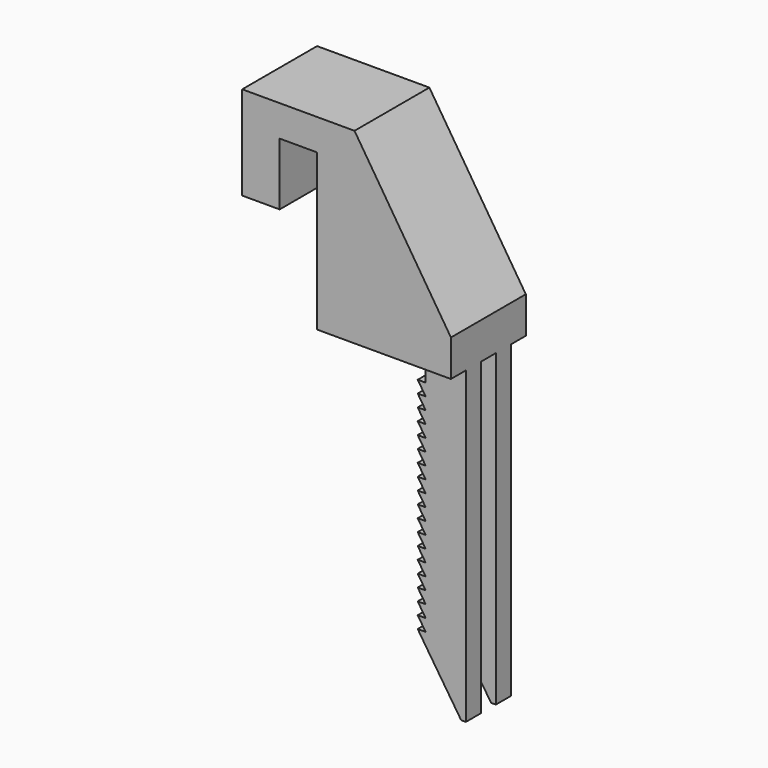
from build123d import *

# Parameters (mm, degrees)
F0_W     = 6
F0_H     = 5
F1_DEPTH = 15
F2_W     = 10.5033244736
F2_H     = 51.3265209893
F3_DEPTH = 3
F4_W     = 10.5033244736
F4_H     = 52.3007216553
F5_DEPTH = 3
F6_W     = 3
F6_H     = 49.6023270358
F7_DEPTH = 25.4


with BuildPart() as f1:
    # F0 (on Front) → F1 (new body)
    with BuildSketch(Plane.XZ):
        Polygon((-22.9482755264, 10.603449295), (-22.9482755264, -4.396550705), (-16.9482755264, -4.396550705), (-16.9482755264, 5.603449295), (-16.9482755264, 10.603449295), align=None)
        Polygon((4.0517244736, -29.082685709), (4.0517244736, -27.1280445158), (2.7775244736, -27.1280445158), align=None)
        Polygon((4.0517244736, -31.0373269022), (4.0517244736, -29.082685709), (2.7775244736, -29.082685709), align=None)
        Polygon((4.0517244736, -32.9919680953), (4.0517244736, -31.0373269022), (2.7775244736, -31.0373269022), align=None)
        Polygon((4.0517244736, -34.9466092885), (4.0517244736, -32.9919680953), (2.7775244736, -32.9919680953), align=None)
        Polygon((4.0517244736, -36.9012504816), (4.0517244736, -34.9466092885), (2.7775244736, -34.9466092885), align=None)
        Polygon((4.0517244736, -38.8558916748), (4.0517244736, -36.9012504816), (2.7775244736, -36.9012504816), align=None)
        Polygon((4.0517244736, -40.8105328679), (4.0517244736, -38.8558916748), (2.7775244736, -38.8558916748), align=None)
        Polygon((4.0517244736, -42.7651740611), (4.0517244736, -40.8105328679), (2.7775244736, -40.8105328679), align=None)
        Polygon((2.7775244736, -42.7651740611), (4.0517244736, -44.7198152542), (4.0517244736, -42.7651740611), align=None)
        Polygon((2.7775244736, -44.7198152542), (4.0517244736, -46.6744564474), (4.0517244736, -44.7198152542), align=None)
        Polygon((2.7775244736, -46.6744564474), (4.0517244736, -48.6290976405), (4.0517244736, -46.6744564474), align=None)
        Polygon((2.7775244736, -48.6290976405), (4.0517244736, -50.5837388337), (4.0517244736, -48.6290976405), align=None)
        Polygon((2.7775244736, -50.5837388337), (4.0517244736, -52.5383800268), (4.0517244736, -50.5837388337), align=None)
        Polygon((2.7775244736, -52.5383800268), (4.0517244736, -54.49302122), (4.0517244736, -52.5383800268), align=None)
        Polygon((2.7775244736, -54.49302122), (4.0517244736, -56.4476624131), (4.0517244736, -54.49302122), align=None)
        Polygon((2.7775244736, -56.4476624131), (4.0517244736, -58.4023036063), (4.0517244736, -56.4476624131), align=None)
        Polygon((2.7775244736, -58.4023036063), (4.0517244736, -60.3569447994), (4.0517244736, -58.4023036063), align=None)
        with Locations((-13.9482755264, 8.103449295)):
            Rectangle(F0_W, F0_H)
        Polygon((10.5033244736, -13.5344793896), (-4.9482755264, 10.603449295), (-4.9482755264, -13.5344793896), align=None)
        Polygon((4.0517244736, -25.1734033227), (4.0517244736, -23.2300292701), (2.7775244736, -23.2300292701), (4.0443796011, -25.1734033227), align=None)
        Polygon((4.0517244736, -27.1280445158), (4.0517244736, -25.1846704632), (4.0443796011, -25.1734033227), (2.7775244736, -25.1734033227), align=None)
        Polygon((-10.9482755264, 10.603449295), (-10.9482755264, 5.603449295), (-10.9482755264, -19.396550705), (-4.9482755264, -19.396550705), (-4.9482755264, -13.5344793896), (-4.9482755264, 10.603449295), align=None)
        Polygon((-4.9482755264, -13.5344793896), (-4.9482755264, -19.396550705), (4.0517244736, -19.396550705), (10.5033244736, -19.396550705), (10.5033244736, -13.5344793896), align=None)
        Polygon((4.0517244736, -25.1846704632), (4.0517244736, -25.1734033227), (4.0443796011, -25.1734033227), align=None)
        Polygon((10.5033244736, -19.396550705), (4.0517244736, -19.396550705), (4.0517244736, -23.2300292701), (4.0517244736, -25.1734033227), (4.0517244736, -25.1846704632), (4.0517244736, -27.1280445158), (4.0517244736, -29.082685709), (4.0517244736, -31.0373269022), (4.0517244736, -32.9919680953), (4.0517244736, -34.9466092885), (4.0517244736, -36.9012504816), (4.0517244736, -38.8558916748), (4.0517244736, -40.8105328679), (4.0517244736, -42.7651740611), (4.0517244736, -44.7198152542), (4.0517244736, -46.6744564474), (4.0517244736, -48.6290976405), (4.0517244736, -50.5837388337), (4.0517244736, -52.5383800268), (4.0517244736, -54.49302122), (4.0517244736, -56.4476624131), (4.0517244736, -58.4023036063), (4.0517244736, -60.3569447994), (9.7408400844, -68.9988777408), (10.5033244736, -68.9988777408), align=None)
    extrude(amount=F1_DEPTH)

    # F2 (on face) → F3 (cut)
    with BuildSketch(Plane(origin=(0, 0, 0), x_dir=(-1, 0, 0), z_dir=(0, 1, 0))):
        with Locations((-5.2516622368, -45.0598111997)):
            Rectangle(F2_W, F2_H)
    extrude(amount=-F3_DEPTH, mode=Mode.SUBTRACT)

    # F4 (on face) → F5 (cut)
    with BuildSketch(Plane.XZ.offset(15)):
        with Locations((5.2516622368, -45.5469115327)):
            Rectangle(F4_W, F4_H)
    extrude(amount=-F5_DEPTH, mode=Mode.SUBTRACT)

    # F6 (on face) → F7 (cut)
    with BuildSketch(Plane.YZ.offset(10.5033244736)):
        with Locations((-7.5, -44.1977142229)):
            Rectangle(F6_W, F6_H)
    extrude(amount=-F7_DEPTH, mode=Mode.SUBTRACT)


solid = f1.part
